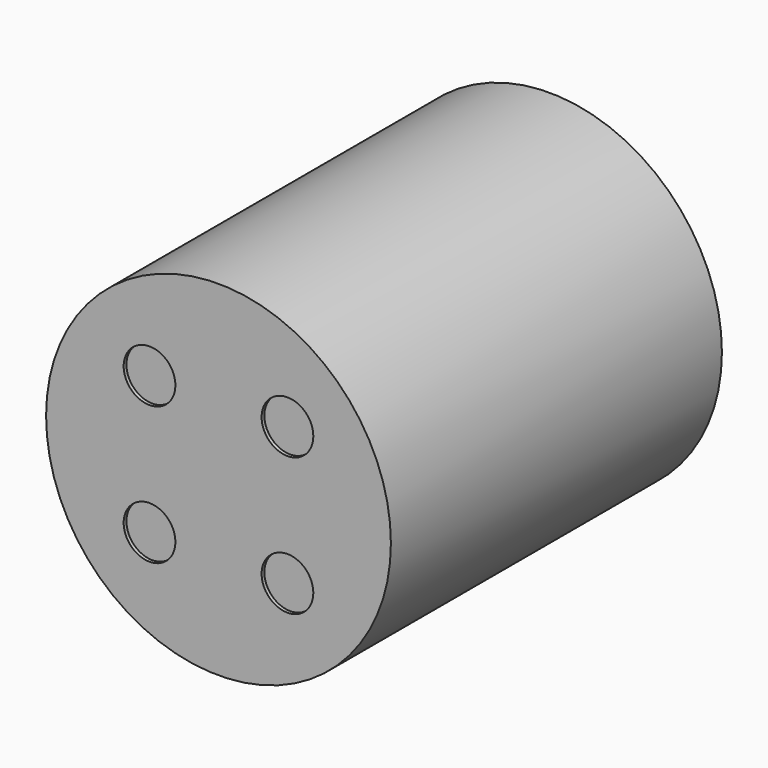
from build123d import *

# Parameters (mm, degrees)
F0_R     = 1000
F1_DEPTH = 2400
F2_R     = 150
F3_DEPTH = 20


with BuildPart() as f1:
    # F0 (on Front) → F1 (new body)
    with BuildSketch(Plane.XZ):
        Circle(F0_R)
    extrude(amount=-F1_DEPTH)

    # F2 (on face) → F3 (cut)
    with BuildSketch(Plane.XZ):
        with Locations((-400, 400)):
            Circle(F2_R)
        with Locations((-400, -400)):
            Circle(F2_R)
        with Locations((400, 400)):
            Circle(F2_R)
        with Locations((400, -400)):
            Circle(F2_R)
    extrude(amount=-F3_DEPTH, mode=Mode.SUBTRACT)


solid = f1.part
